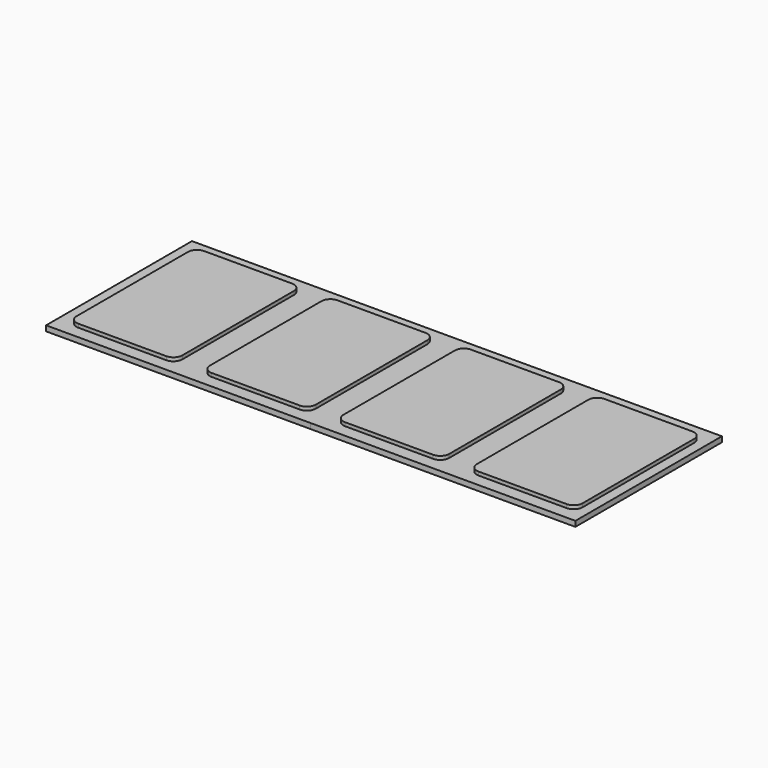
from build123d import *

# Parameters (mm, degrees)
F1_DEPTH = 15.24
F2_DEPTH = 25.4


with BuildPart() as f1:
    # F0 (on Top) → F1 (new body)
    with BuildSketch(Plane.XY):
        Polygon((-378.244507, 292.142749), (-756.070369, 292.142749), (-756.070369, -228.557251), (-0.418645, -228.577329), (-0.418645, 292.142749), align=None)
        with BuildLine():
            ThreePointArc((-718.259513, 230.902804), (-710.820026, 248.863316), (-692.859513, 256.302804))
            Line((-692.859513, 256.302804), (-441.455363, 256.302804))
            ThreePointArc((-441.455363, 256.302804), (-423.49485, 248.863316), (-416.055363, 230.902804))
            Line((-416.055363, 230.902804), (-416.055363, -167.317306))
            ThreePointArc((-416.055363, -167.317306), (-423.49485, -185.277818), (-441.455363, -192.717306))
            Line((-441.455363, -192.717306), (-692.859513, -192.717306))
            ThreePointArc((-692.859513, -192.717306), (-710.820026, -185.277818), (-718.259513, -167.317306))
            Line((-718.259513, -167.317306), (-718.259513, 230.902804))
        make_face(mode=Mode.SUBTRACT)
        with BuildLine():
            Line((-337.259513, -167.317306), (-337.259513, 230.902804))
            ThreePointArc((-337.259513, 230.902804), (-329.820026, 248.863316), (-311.859513, 256.302804))
            Line((-311.859513, 256.302804), (-60.455363, 256.302804))
            ThreePointArc((-60.455363, 256.302804), (-42.49485, 248.863316), (-35.055363, 230.902804))
            Line((-35.055363, 230.902804), (-35.055363, -167.317306))
            ThreePointArc((-35.055363, -167.317306), (-42.49485, -185.277818), (-60.455363, -192.717306))
            Line((-60.455363, -192.717306), (-311.859513, -192.717306))
            ThreePointArc((-311.859513, -192.717306), (-329.820026, -185.277818), (-337.259513, -167.317306))
        make_face(mode=Mode.SUBTRACT)
        Polygon((-0.418645, 292.142749), (-0.418645, -228.577329), (377.405493, -228.577329), (377.405493, 293.284322), align=None)
        with BuildLine():
            Line((43.740487, -167.317306), (43.740487, 230.902804))
            ThreePointArc((43.740487, 230.902804), (51.179974, 248.863316), (69.140487, 256.302804))
            Line((69.140487, 256.302804), (320.544637, 256.302804))
            ThreePointArc((320.544637, 256.302804), (338.50515, 248.863316), (345.944637, 230.902804))
            Line((345.944637, 230.902804), (345.944637, -167.317306))
            ThreePointArc((345.944637, -167.317306), (338.50515, -185.277818), (320.544637, -192.717306))
            Line((320.544637, -192.717306), (69.140487, -192.717306))
            ThreePointArc((69.140487, -192.717306), (51.179974, -185.277818), (43.740487, -167.317306))
        make_face(mode=Mode.SUBTRACT)
        Polygon((377.405493, 293.284322), (377.405493, -228.577329), (755.229631, -228.577329), (755.229631, 294.425895), align=None)
        with BuildLine():
            Line((424.740487, -167.317306), (424.740487, 230.902804))
            ThreePointArc((424.740487, 230.902804), (432.179974, 248.863316), (450.140487, 256.302804))
            Line((450.140487, 256.302804), (701.544637, 256.302804))
            ThreePointArc((701.544637, 256.302804), (719.50515, 248.863316), (726.944637, 230.902804))
            Line((726.944637, 230.902804), (726.944637, -167.317306))
            ThreePointArc((726.944637, -167.317306), (719.50515, -185.277818), (701.544637, -192.717306))
            Line((701.544637, -192.717306), (450.140487, -192.717306))
            ThreePointArc((450.140487, -192.717306), (432.179974, -185.277818), (424.740487, -167.317306))
        make_face(mode=Mode.SUBTRACT)
    extrude(amount=F1_DEPTH)

    # F0 (on Top) → F2 (join)
    with BuildSketch(Plane.XY):
        with BuildLine():
            Line((-441.455363, 256.302804), (-692.859513, 256.302804))
            ThreePointArc((-692.859513, 256.302804), (-710.820026, 248.863316), (-718.259513, 230.902804))
            Line((-718.259513, 230.902804), (-718.259513, -167.317306))
            ThreePointArc((-718.259513, -167.317306), (-710.820026, -185.277818), (-692.859513, -192.717306))
            Line((-692.859513, -192.717306), (-441.455363, -192.717306))
            ThreePointArc((-441.455363, -192.717306), (-423.49485, -185.277818), (-416.055363, -167.317306))
            Line((-416.055363, -167.317306), (-416.055363, 230.902804))
            ThreePointArc((-416.055363, 230.902804), (-423.49485, 248.863316), (-441.455363, 256.302804))
        make_face()
        with BuildLine():
            ThreePointArc((-311.859513, 256.302804), (-329.820026, 248.863316), (-337.259513, 230.902804))
            Line((-337.259513, 230.902804), (-337.259513, -167.317306))
            ThreePointArc((-337.259513, -167.317306), (-329.820026, -185.277818), (-311.859513, -192.717306))
            Line((-311.859513, -192.717306), (-60.455363, -192.717306))
            ThreePointArc((-60.455363, -192.717306), (-42.49485, -185.277818), (-35.055363, -167.317306))
            Line((-35.055363, -167.317306), (-35.055363, 230.902804))
            ThreePointArc((-35.055363, 230.902804), (-42.49485, 248.863316), (-60.455363, 256.302804))
            Line((-60.455363, 256.302804), (-311.859513, 256.302804))
        make_face()
        with BuildLine():
            ThreePointArc((69.140487, 256.302804), (51.179974, 248.863316), (43.740487, 230.902804))
            Line((43.740487, 230.902804), (43.740487, -167.317306))
            ThreePointArc((43.740487, -167.317306), (51.179974, -185.277818), (69.140487, -192.717306))
            Line((69.140487, -192.717306), (320.544637, -192.717306))
            ThreePointArc((320.544637, -192.717306), (338.50515, -185.277818), (345.944637, -167.317306))
            Line((345.944637, -167.317306), (345.944637, 230.902804))
            ThreePointArc((345.944637, 230.902804), (338.50515, 248.863316), (320.544637, 256.302804))
            Line((320.544637, 256.302804), (69.140487, 256.302804))
        make_face()
        with BuildLine():
            ThreePointArc((450.140487, 256.302804), (432.179974, 248.863316), (424.740487, 230.902804))
            Line((424.740487, 230.902804), (424.740487, -167.317306))
            ThreePointArc((424.740487, -167.317306), (432.179974, -185.277818), (450.140487, -192.717306))
            Line((450.140487, -192.717306), (701.544637, -192.717306))
            ThreePointArc((701.544637, -192.717306), (719.50515, -185.277818), (726.944637, -167.317306))
            Line((726.944637, -167.317306), (726.944637, 230.902804))
            ThreePointArc((726.944637, 230.902804), (719.50515, 248.863316), (701.544637, 256.302804))
            Line((701.544637, 256.302804), (450.140487, 256.302804))
        make_face()
    extrude(amount=F2_DEPTH)


solid = f1.part
